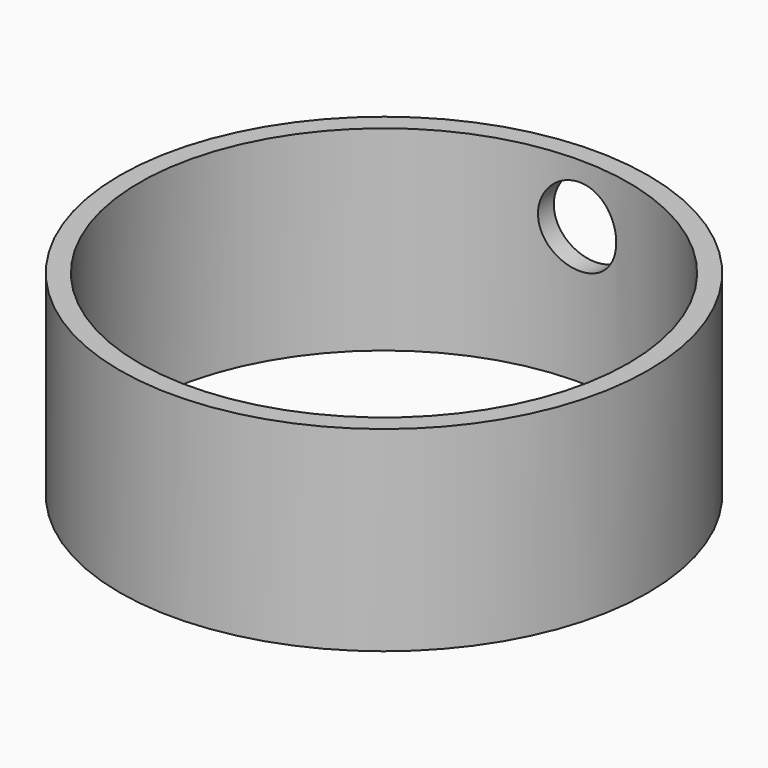
from build123d import *

# Parameters (mm, degrees)
F0_R     = 1350
F0_R_2   = 1250
F1_DEPTH = 500
F2_R     = 200
F3_DEPTH = 2000


with BuildPart() as f1:
    # F0 (on Top) → F1 (new body, symmetric)
    with BuildSketch(Plane.XY):
        Circle(F0_R)
        Circle(F0_R_2, mode=Mode.SUBTRACT)
    extrude(amount=F1_DEPTH, both=True)

    # F2 (on Front) → F3 (cut)
    with BuildSketch(Plane.XZ):
        with Locations((0, 200)):
            Circle(F2_R)
    extrude(amount=-F3_DEPTH, mode=Mode.SUBTRACT)


solid = f1.part
